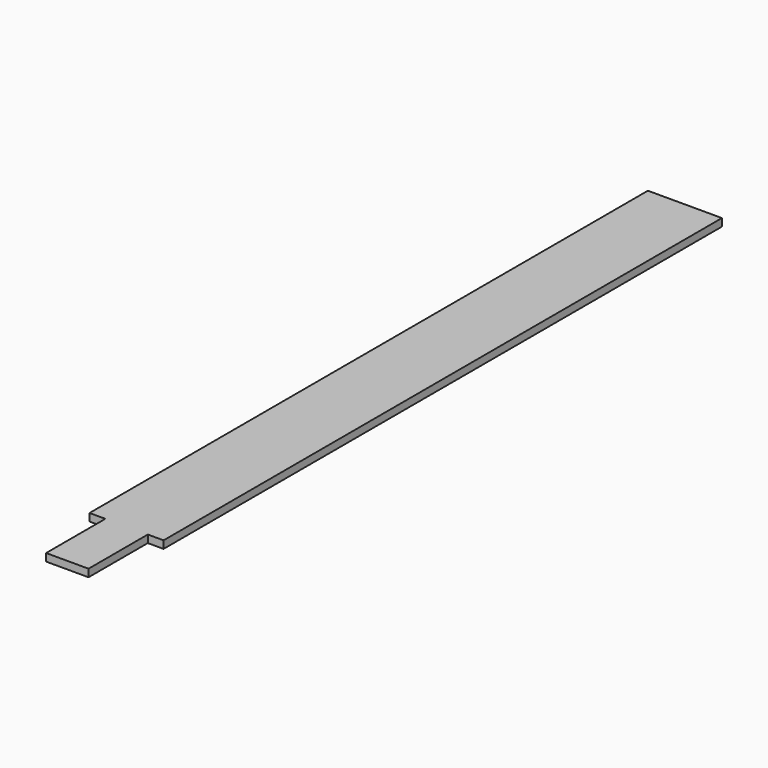
from build123d import *

# Parameters (mm, degrees)
F0_W     = 12.73
F0_H     = 120
F1_DEPTH = 1.3
F2_W     = 7.3
F2_H     = 13
F3_DEPTH = 1.3


with BuildPart() as f1:
    # F0 (on Top) → F1 (new body)
    with BuildSketch(Plane.XY):
        with Locations((-18.500336, -0.08574)):
            Rectangle(F0_W, F0_H)
    extrude(amount=F1_DEPTH)

    # F2 (on Top) → F3 (join)
    with BuildSketch(Plane.XY):
        with Locations((-18.497536, -66.319867)):
            Rectangle(F2_W, F2_H)
    extrude(amount=F3_DEPTH)


solid = f1.part
